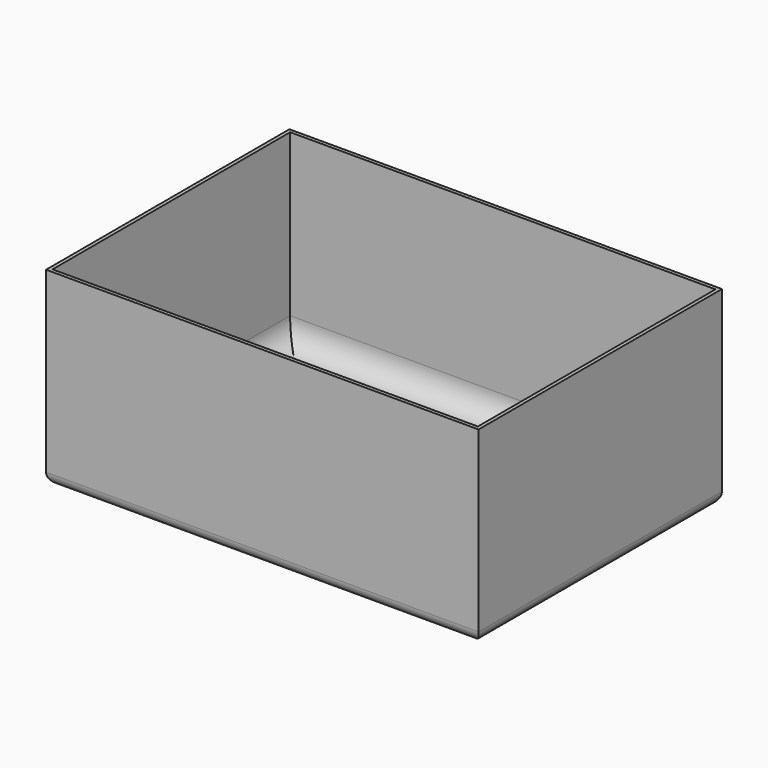
from build123d import *

# Parameters (mm, degrees)
F0_W     = 91
F0_H     = 64
F1_DEPTH = 40
F2_W     = 89.5
F2_H     = 62.5
F3_DEPTH = 39
F4_R     = 5
F5_R     = 2.5


with BuildPart() as f1:
    # F0 (on Top) → F1 (new body)
    with BuildSketch(Plane.XY):
        Rectangle(F0_W, F0_H)
    extrude(amount=F1_DEPTH)

    # F2 (on face) → F3 (cut)
    with BuildSketch(Plane.XY.offset(40)):
        Rectangle(F2_W, F2_H)
    extrude(amount=-F3_DEPTH, mode=Mode.SUBTRACT)

    # F4
    f4_edges = [f1.edges().sort_by_distance(p)[0] for p in [
        (0, 31.25, 1),
        (-44.75, 0, 1),
        (0, -31.25, 1),
        (44.75, 0, 1),
    ]]
    fillet(f4_edges, radius=F4_R)

    # F5
    f5_edges = [f1.edges().sort_by_distance(p)[0] for p in [
        (45.5, 0, 0),
        (0, 32, 0),
        (-45.5, 0, 0),
        (0, -32, 0),
    ]]
    fillet(f5_edges, radius=F5_R)


solid = f1.part
